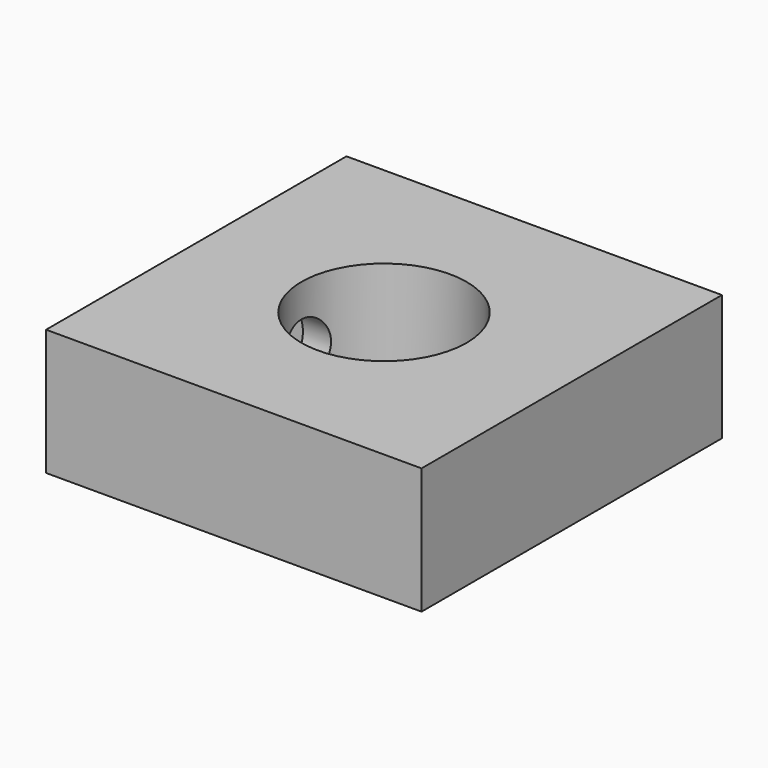
from build123d import *

# Parameters (mm, degrees)
SKETCH002_W      = 2.5
SKETCH002_H      = 5.6
EXTRUDE002_DEPTH = 8.2
SKETCH001_R      = 2
EXTRUDE001_DEPTH = 20
SKETCH_W         = 25
SKETCH_H         = 25
SKETCH_R         = 5.5
EXTRUDE_DEPTH    = 8.4


with BuildPart() as extrude002:
    # Sketch002 → Extrude002 (new body)
    with BuildSketch(Plane.XY):
        with Locations((-8.25, 0)):
            Rectangle(SKETCH002_W, SKETCH002_H)
    extrude(amount=EXTRUDE002_DEPTH)


with BuildPart() as extrude001:
    # Sketch001 → Extrude001 (new body)
    with BuildSketch(Plane.YZ):
        with Locations((0, 4.2)):
            Circle(SKETCH001_R)
    extrude(amount=-EXTRUDE001_DEPTH)


with BuildPart() as body:
    # Sketch → Extrude (new body)
    with BuildSketch(Plane.XY):
        Rectangle(SKETCH_W, SKETCH_H)
        Circle(SKETCH_R, mode=Mode.SUBTRACT)
    extrude(amount=EXTRUDE_DEPTH)

    # Cut: cut Extrude001
    add(extrude001.part, mode=Mode.SUBTRACT)

    # Cut001: cut Extrude002
    add(extrude002.part, mode=Mode.SUBTRACT)


solid = body.part
